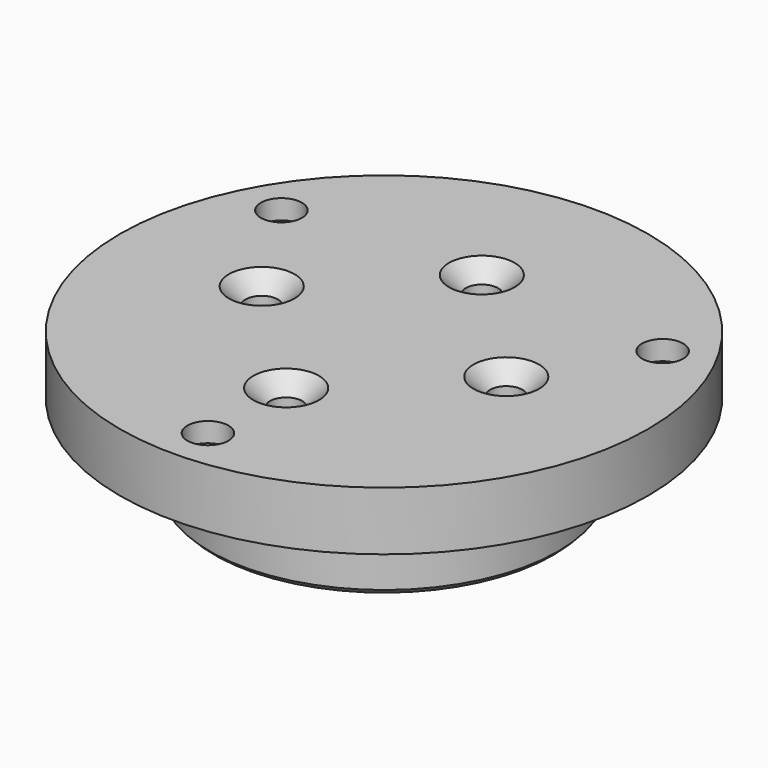
from build123d import *

# Parameters (mm, degrees)
F2_SIZE        = 1
F4_D           = 6.6
F4_CSINK_D     = 13.44
F4_CSINK_ANGLE = 90
F6_D           = 8.4
F6_CBORE_D     = 14.25
F6_CBORE_DEPTH = 8


with BuildPart() as f1:
    # F0 (on Front) → F1 (revolve)
    with BuildSketch(Plane.XZ):
        Polygon((0, 10), (0, 0), (31.6, 0), (31.6, -7), (35.6, -7), (35.6, 10), align=None)
        Polygon((0, 22), (0, 10), (35.6, 10), (54, 10), (54, 22), align=None)
    revolve(axis=Axis((0, 0, 5), (0, 0, -1)))

    # F2
    f2_edges = [f1.edges().sort_by_distance(p)[0] for p in [
        (-31.6, 0, -7),
        (-35.6, 0, -7),
        (-35.6, 0, 10),
    ]]
    chamfer(f2_edges, length=F2_SIZE)

    # F4 (through all)
    with Locations(Plane.XY.offset(22)):
        with Locations((-25, 0), (25, 0), (0, -25), (0, 25)):
            CounterSinkHole(F4_D / 2, F4_CSINK_D / 2, counter_sink_angle=F4_CSINK_ANGLE)

    # F6 (through all)
    with Locations(Plane(origin=(0, 0, 10), x_dir=(1, 0, 0), z_dir=(0, 0, -1))):
        with Locations((-38.9711431703, -22.5), (38.9711431703, -22.5), (0, 45)):
            CounterBoreHole(F6_D / 2, F6_CBORE_D / 2, F6_CBORE_DEPTH)


solid = f1.part
